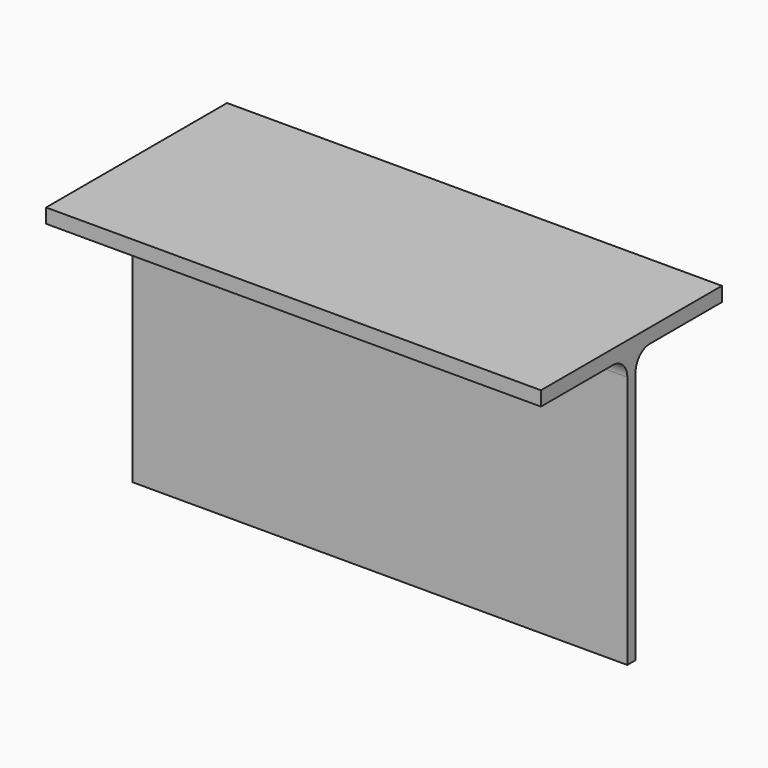
from build123d import *

# Parameters (mm, degrees)
F1_DEPTH = 457.2


with BuildPart() as f1:
    # F0 (on Right) → F1 (new body)
    with BuildSketch(Plane.YZ):
        with BuildLine():
            Line((-4.7498, 233.98734), (-4.7498, 0))
            Line((-4.7498, 0), (4.7498, 0))
            Line((4.7498, 0), (4.7498, 233.98734))
            ThreePointArc((4.7498, 233.98734), (9.644983, 245.805357), (21.463, 250.70054))
            Line((21.463, 250.70054), (104.4956, 250.70054))
            Line((104.4956, 250.70054), (104.4956, 263.99998))
            Line((104.4956, 263.99998), (0, 263.99998))
            Line((0, 263.99998), (-104.4956, 263.99998))
            Line((-104.4956, 263.99998), (-104.4956, 250.70054))
            Line((-104.4956, 250.70054), (-21.463, 250.70054))
            ThreePointArc((-21.463, 250.70054), (-9.644983, 245.805357), (-4.7498, 233.98734))
        make_face()
    extrude(amount=F1_DEPTH)


solid = f1.part
